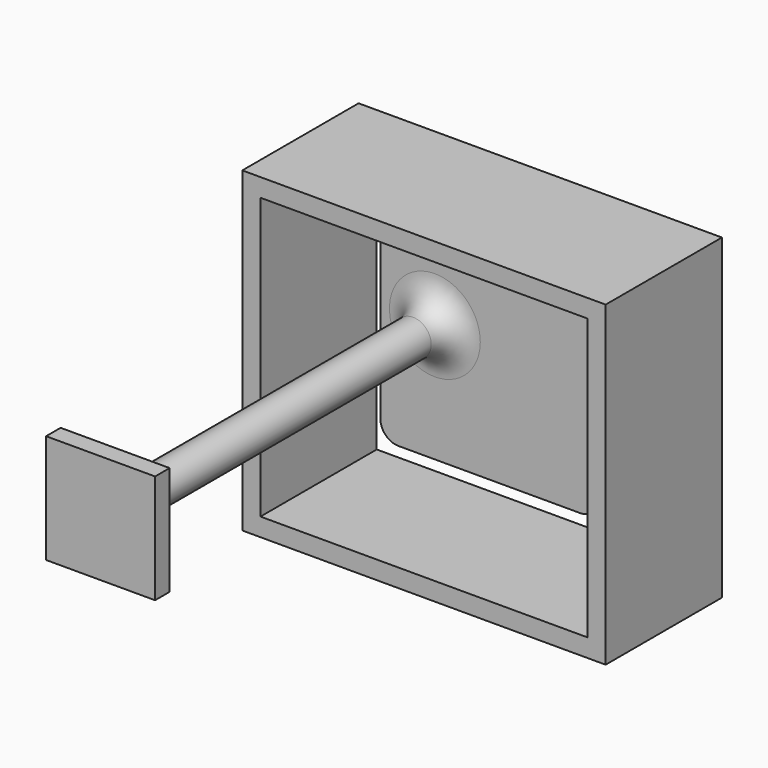
from build123d import *

# Parameters (mm, degrees)
F0_W     = 20
F0_H     = 17.45
F1_DEPTH = 8
F0_W_2   = 6
F0_H_2   = 6
F0_R     = 1
F2_DEPTH = 1
F3_DEPTH = 24
F4_W     = 6
F4_H     = 6
F5_DEPTH = 1
F6_R     = 1.5
F7_W     = 5
F7_H     = 5
F8_DEPTH = 0.2
F9_R     = 1


with BuildPart() as f1:
    # F0 (on Front) → F1 (new body)
    with BuildSketch(Plane.XZ):
        with Locations((10, 8.725)):
            Rectangle(F0_W, F0_H)
        Polygon((19, 16.45), (19, 11.225), (19, 6.225), (19, 1), (1, 1), (1, 16.45), align=None, mode=Mode.SUBTRACT)
    extrude(amount=F1_DEPTH)

    # F0 (on Front) → F2 (join)
    with BuildSketch(Plane.XZ):
        Polygon((19, 11.225), (14, 11.225), (14, 15.225), (2, 15.225), (2, 11.725), (8, 11.725), (8, 5.725), (2, 5.725), (2, 2.225), (14, 2.225), (14, 6.225), (19, 6.225), align=None)
        with Locations((5, 8.725)):
            Rectangle(F0_W_2, F0_H_2)
        with Locations((5, 8.725)):
            Circle(F0_R, mode=Mode.SUBTRACT)
    extrude(amount=F2_DEPTH)

    # F0 (on Front) → F3 (join)
    with BuildSketch(Plane.XZ):
        with Locations((5, 8.725)):
            Circle(F0_R)
    extrude(amount=F3_DEPTH)

    # F4 (on face) → F5 (join)
    with BuildSketch(Plane.XZ.offset(24)):
        with Locations((5, 8.725)):
            Rectangle(F4_W, F4_H)
    extrude(amount=-F5_DEPTH)

    # F6
    f6_edges = [f1.edges().sort_by_distance(p)[0] for p in [
        (4, -23, 8.725),
        (4, -1, 8.725),
    ]]
    fillet(f6_edges, radius=F6_R)

    # F7 (on face) → F8 (cut)
    with BuildSketch(Plane.XZ.offset(1)):
        with Locations((16.5, 8.725)):
            Rectangle(F7_W, F7_H)
    extrude(amount=-F8_DEPTH, mode=Mode.SUBTRACT)

    # F9
    f9_edges = [f1.edges().sort_by_distance(p)[0] for p in [
        (2, -0.5, 15.225),
        (14, -0.5, 15.225),
        (2, -0.5, 2.225),
        (14, -0.5, 2.225),
    ]]
    fillet(f9_edges, radius=F9_R)


solid = f1.part
